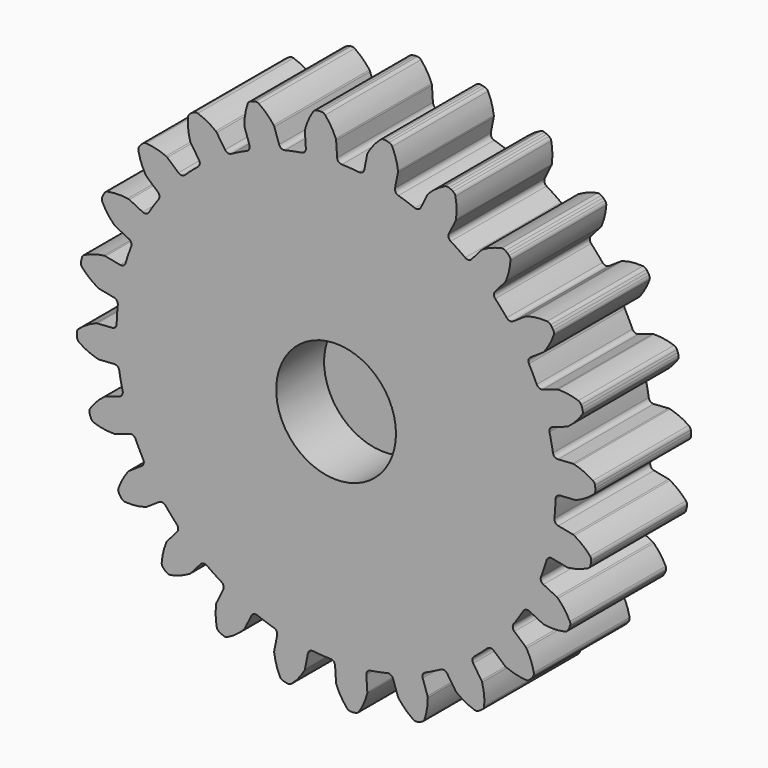
from build123d import *

# Parameters (mm, degrees)
F1_DEPTH = 12.7
F2_R     = 6.35
F3_DEPTH = 6.35


with BuildPart() as f1:
    # F0 (on Front) → F1 (new body)
    with BuildSketch(Plane.XZ):
        with BuildLine():
            ThreePointArc((-3.206501, 23.528829), (-3.316538, 23.178349), (-3.6341, 22.993691))
            ThreePointArc((-3.6341, 22.993691), (-4.541527, 22.831799), (-5.441834, 22.63411))
            ThreePointArc((-5.441834, 22.63411), (-5.805889, 22.683186), (-6.041672, 22.964878))
            Line((-6.041672, 22.964878), (-6.54865, 24.459758))
            ThreePointArc((-6.54865, 24.459758), (-6.580189, 24.533183), (-6.622851, 24.600753))
            ThreePointArc((-6.622851, 24.600753), (-7.343619, 25.410432), (-8.1916, 26.085719))
            ThreePointArc((-8.1916, 26.085719), (-8.390735, 26.164067), (-8.604465, 26.15346))
            Line((-8.604465, 26.15346), (-8.855106, 26.086301))
            Line((-8.855106, 26.086301), (-9.094836, 25.987001))
            ThreePointArc((-9.094836, 25.987001), (-9.270857, 25.865306), (-9.381146, 25.681923))
            ThreePointArc((-9.381146, 25.681923), (-9.642807, 24.629963), (-9.721729, 23.548826))
            ThreePointArc((-9.721729, 23.548826), (-9.714441, 23.469247), (-9.694764, 23.391796))
            Line((-9.694764, 23.391796), (-9.186951, 21.8972))
            ThreePointArc((-9.186951, 21.8972), (-9.202527, 21.530183), (-9.461476, 21.269625))
            ThreePointArc((-9.461476, 21.269625), (-10.296083, 20.87839), (-11.114547, 20.454421))
            ThreePointArc((-11.114547, 20.454421), (-11.478898, 20.407601), (-11.779555, 20.618669))
            Line((-11.779555, 20.618669), (-12.656161, 21.931396))
            ThreePointArc((-12.656161, 21.931396), (-12.705629, 21.994157), (-12.764327, 22.048383))
            ThreePointArc((-12.764327, 22.048383), (-13.670095, 22.643924), (-14.663959, 23.076728))
            ThreePointArc((-14.663959, 23.076728), (-14.876587, 23.100866), (-15.080289, 23.035303))
            Line((-15.080289, 23.035303), (-15.305007, 22.905562))
            Line((-15.305007, 22.905562), (-15.510868, 22.747599))
            ThreePointArc((-15.510868, 22.747599), (-15.649394, 22.584493), (-15.708462, 22.378813))
            ThreePointArc((-15.708462, 22.378813), (-15.688939, 21.294976), (-15.485353, 20.230251))
            ThreePointArc((-15.485353, 20.230251), (-15.457717, 20.15527), (-15.418665, 20.08555))
            Line((-15.418665, 20.08555), (-14.541326, 18.773313))
            ThreePointArc((-14.541326, 18.773313), (-14.46138, 18.41477), (-14.644068, 18.09607))
            ThreePointArc((-14.644068, 18.09607), (-15.348977, 17.502154), (-16.029821, 16.880797))
            ThreePointArc((-16.029821, 16.880797), (-16.36964, 16.741271), (-16.714681, 16.867332))
            Line((-16.714681, 16.867332), (-17.901176, 17.908447))
            ThreePointArc((-17.901176, 17.908447), (-17.965202, 17.956265), (-18.035934, 17.993452))
            ThreePointArc((-18.035934, 17.993452), (-19.064977, 18.33427), (-20.136994, 18.495096))
            ThreePointArc((-20.136994, 18.495096), (-20.348623, 18.463379), (-20.528415, 18.347328))
            Line((-20.528415, 18.347328), (-20.711897, 18.163846))
            Line((-20.711897, 18.163846), (-20.86986, 17.957985))
            ThreePointArc((-20.86986, 17.957985), (-20.96145, 17.764583), (-20.965273, 17.550625))
            ThreePointArc((-20.965273, 17.550625), (-20.665897, 16.508771), (-20.193677, 15.533018))
            ThreePointArc((-20.193677, 15.533018), (-20.147576, 15.467744), (-20.09181, 15.410508))
            Line((-20.09181, 15.410508), (-18.904733, 14.370056))
            ThreePointArc((-18.904733, 14.370056), (-18.734714, 14.044421), (-18.828691, 13.689298))
            ThreePointArc((-18.828691, 13.689298), (-19.355864, 12.933175), (-19.85269, 12.156775))
            ThreePointArc((-19.85269, 12.156775), (-20.144818, 11.934051), (-20.510729, 11.966514))
            Line((-20.510729, 11.966514), (-21.926255, 12.665066))
            ThreePointArc((-21.926255, 12.665066), (-22.000476, 12.694684), (-22.078423, 12.712296))
            ThreePointArc((-22.078423, 12.712296), (-23.160612, 12.775166), (-24.237725, 12.653053))
            ThreePointArc((-24.237725, 12.653053), (-24.433935, 12.567643), (-24.577565, 12.409013))
            Line((-24.577565, 12.409013), (-24.707306, 12.184295))
            Line((-24.707306, 12.184295), (-24.806605, 11.944564))
            ThreePointArc((-24.806605, 11.944564), (-24.845019, 11.734047), (-24.793334, 11.52639))
            ThreePointArc((-24.793334, 11.52639), (-24.234508, 10.59752), (-23.525835, 9.777235))
            ThreePointArc((-23.525835, 9.777235), (-23.464411, 9.726117), (-23.395731, 9.685264))
            Line((-23.395731, 9.685264), (-21.979814, 8.987503))
            ThreePointArc((-21.979814, 8.987503), (-21.731308, 8.716969), (-21.73017, 8.349622))
            ThreePointArc((-21.73017, 8.349622), (-22.043681, 7.482821), (-22.322631, 6.604289))
            ThreePointArc((-22.322631, 6.604289), (-22.54716, 6.313546), (-22.909004, 6.250197))
            Line((-22.909004, 6.250197), (-24.457097, 6.558582))
            ThreePointArc((-24.457097, 6.558582), (-24.536454, 6.567981), (-24.616303, 6.564819))
            ThreePointArc((-24.616303, 6.564819), (-25.677889, 6.345456), (-26.686696, 5.948726))
            ThreePointArc((-26.686696, 5.948726), (-26.854114, 5.815444), (-26.951793, 5.625044))
            Line((-26.951793, 5.625044), (-27.018952, 5.374404))
            Line((-27.018952, 5.374404), (-27.052822, 5.117141))
            ThreePointArc((-27.052822, 5.117141), (-27.03544, 4.903855), (-26.931771, 4.71665))
            ThreePointArc((-26.931771, 4.71665), (-26.151577, 3.964066), (-25.254746, 3.355149))
            ThreePointArc((-25.254746, 3.355149), (-25.182185, 3.321671), (-25.105271, 3.299986))
            Line((-25.105271, 3.299986), (-23.557007, 2.992467))
            ThreePointArc((-23.557007, 2.992467), (-23.246949, 2.795469), (-23.150774, 2.440934))
            ThreePointArc((-23.150774, 2.440934), (-23.229258, 1.522526), (-23.271322, 0.601731))
            ThreePointArc((-23.271322, 0.601731), (-23.41295, 0.262783), (-23.746069, 0.10794))
            Line((-23.746069, 0.10794), (-25.321227, 0.005141))
            ThreePointArc((-25.321227, 0.005141), (-25.400313, -0.006319), (-25.476623, -0.03004))
            ThreePointArc((-25.476623, -0.03004), (-26.445261, -0.516687), (-27.317012, -1.160997))
            ThreePointArc((-27.317012, -1.160997), (-27.44423, -1.333069), (-27.489302, -1.542262))
            Line((-27.489302, -1.542262), (-27.489302, -1.801744))
            Line((-27.489302, -1.801744), (-27.455433, -2.059006))
            ThreePointArc((-27.455433, -2.059006), (-27.383441, -2.260526), (-27.234852, -2.414521))
            ThreePointArc((-27.234852, -2.414521), (-26.28646, -2.939532), (-25.262588, -3.295584))
            ThreePointArc((-25.262588, -3.295584), (-25.183835, -3.309141), (-25.103929, -3.31018))
            Line((-25.103929, -3.31018), (-23.528829, -3.206501))
            ThreePointArc((-23.528829, -3.206501), (-23.178349, -3.316538), (-22.993691, -3.6341))
            ThreePointArc((-22.993691, -3.6341), (-22.831799, -4.541527), (-22.63411, -5.441834))
            ThreePointArc((-22.63411, -5.441834), (-22.683186, -5.805889), (-22.964878, -6.041672))
            Line((-22.964878, -6.041672), (-24.459758, -6.54865))
            ThreePointArc((-24.459758, -6.54865), (-24.533183, -6.580189), (-24.600753, -6.622851))
            ThreePointArc((-24.600753, -6.622851), (-25.410432, -7.343619), (-26.085719, -8.1916))
            ThreePointArc((-26.085719, -8.1916), (-26.164067, -8.390735), (-26.15346, -8.604465))
            Line((-26.15346, -8.604465), (-26.086301, -8.855106))
            Line((-26.086301, -8.855106), (-25.987001, -9.094836))
            ThreePointArc((-25.987001, -9.094836), (-25.865306, -9.270857), (-25.681923, -9.381146))
            ThreePointArc((-25.681923, -9.381146), (-24.629963, -9.642807), (-23.548826, -9.721729))
            ThreePointArc((-23.548826, -9.721729), (-23.469247, -9.714441), (-23.391796, -9.694764))
            Line((-23.391796, -9.694764), (-21.8972, -9.186951))
            ThreePointArc((-21.8972, -9.186951), (-21.530183, -9.202527), (-21.269625, -9.461476))
            ThreePointArc((-21.269625, -9.461476), (-20.87839, -10.296083), (-20.454421, -11.114547))
            ThreePointArc((-20.454421, -11.114547), (-20.407601, -11.478898), (-20.618669, -11.779555))
            Line((-20.618669, -11.779555), (-21.931396, -12.656161))
            ThreePointArc((-21.931396, -12.656161), (-21.994157, -12.705629), (-22.048383, -12.764327))
            ThreePointArc((-22.048383, -12.764327), (-22.643924, -13.670095), (-23.076728, -14.663959))
            ThreePointArc((-23.076728, -14.663959), (-23.100866, -14.876587), (-23.035303, -15.080289))
            Line((-23.035303, -15.080289), (-22.905562, -15.305007))
            Line((-22.905562, -15.305007), (-22.747599, -15.510868))
            ThreePointArc((-22.747599, -15.510868), (-22.584493, -15.649394), (-22.378813, -15.708462))
            ThreePointArc((-22.378813, -15.708462), (-21.294976, -15.688939), (-20.230251, -15.485353))
            ThreePointArc((-20.230251, -15.485353), (-20.15527, -15.457717), (-20.08555, -15.418665))
            Line((-20.08555, -15.418665), (-18.773313, -14.541326))
            ThreePointArc((-18.773313, -14.541326), (-18.41477, -14.46138), (-18.09607, -14.644068))
            ThreePointArc((-18.09607, -14.644068), (-17.502154, -15.348977), (-16.880797, -16.029821))
            ThreePointArc((-16.880797, -16.029821), (-16.741271, -16.36964), (-16.867332, -16.714681))
            Line((-16.867332, -16.714681), (-17.908447, -17.901176))
            ThreePointArc((-17.908447, -17.901176), (-17.956265, -17.965202), (-17.993452, -18.035934))
            ThreePointArc((-17.993452, -18.035934), (-18.33427, -19.064977), (-18.495096, -20.136994))
            ThreePointArc((-18.495096, -20.136994), (-18.463379, -20.348623), (-18.347328, -20.528415))
            Line((-18.347328, -20.528415), (-18.163846, -20.711897))
            Line((-18.163846, -20.711897), (-17.957985, -20.86986))
            ThreePointArc((-17.957985, -20.86986), (-17.764583, -20.96145), (-17.550625, -20.965273))
            ThreePointArc((-17.550625, -20.965273), (-16.508771, -20.665897), (-15.533018, -20.193677))
            ThreePointArc((-15.533018, -20.193677), (-15.467744, -20.147576), (-15.410508, -20.09181))
            Line((-15.410508, -20.09181), (-14.370056, -18.904733))
            ThreePointArc((-14.370056, -18.904733), (-14.044421, -18.734714), (-13.689298, -18.828691))
            ThreePointArc((-13.689298, -18.828691), (-12.933175, -19.355864), (-12.156775, -19.85269))
            ThreePointArc((-12.156775, -19.85269), (-11.934051, -20.144818), (-11.966514, -20.510729))
            Line((-11.966514, -20.510729), (-12.665066, -21.926255))
            ThreePointArc((-12.665066, -21.926255), (-12.694684, -22.000476), (-12.712296, -22.078423))
            ThreePointArc((-12.712296, -22.078423), (-12.775166, -23.160612), (-12.653053, -24.237725))
            ThreePointArc((-12.653053, -24.237725), (-12.567643, -24.433935), (-12.409013, -24.577565))
            Line((-12.409013, -24.577565), (-12.184295, -24.707306))
            Line((-12.184295, -24.707306), (-11.944564, -24.806605))
            ThreePointArc((-11.944564, -24.806605), (-11.734047, -24.845019), (-11.52639, -24.793334))
            ThreePointArc((-11.52639, -24.793334), (-10.59752, -24.234508), (-9.777235, -23.525835))
            ThreePointArc((-9.777235, -23.525835), (-9.726117, -23.464411), (-9.685264, -23.395731))
            Line((-9.685264, -23.395731), (-8.987503, -21.979814))
            ThreePointArc((-8.987503, -21.979814), (-8.716969, -21.731308), (-8.349622, -21.73017))
            ThreePointArc((-8.349622, -21.73017), (-7.482821, -22.043681), (-6.604289, -22.322631))
            ThreePointArc((-6.604289, -22.322631), (-6.313546, -22.54716), (-6.250197, -22.909004))
            Line((-6.250197, -22.909004), (-6.558582, -24.457097))
            ThreePointArc((-6.558582, -24.457097), (-6.567981, -24.536454), (-6.564819, -24.616303))
            ThreePointArc((-6.564819, -24.616303), (-6.345456, -25.677889), (-5.948726, -26.686696))
            ThreePointArc((-5.948726, -26.686696), (-5.815444, -26.854114), (-5.625044, -26.951793))
            Line((-5.625044, -26.951793), (-5.374404, -27.018952))
            Line((-5.374404, -27.018952), (-5.117141, -27.052822))
            ThreePointArc((-5.117141, -27.052822), (-4.903855, -27.03544), (-4.71665, -26.931771))
            ThreePointArc((-4.71665, -26.931771), (-3.964066, -26.151577), (-3.355149, -25.254746))
            ThreePointArc((-3.355149, -25.254746), (-3.321671, -25.182185), (-3.299986, -25.105271))
            Line((-3.299986, -25.105271), (-2.992467, -23.557007))
            ThreePointArc((-2.992467, -23.557007), (-2.795469, -23.246949), (-2.440934, -23.150774))
            ThreePointArc((-2.440934, -23.150774), (-1.522526, -23.229258), (-0.601731, -23.271322))
            ThreePointArc((-0.601731, -23.271322), (-0.262783, -23.41295), (-0.10794, -23.746069))
            Line((-0.10794, -23.746069), (-0.005141, -25.321227))
            ThreePointArc((-0.005141, -25.321227), (0.006319, -25.400313), (0.03004, -25.476623))
            ThreePointArc((0.03004, -25.476623), (0.516687, -26.445261), (1.160997, -27.317012))
            ThreePointArc((1.160997, -27.317012), (1.333069, -27.44423), (1.542262, -27.489302))
            Line((1.542262, -27.489302), (1.801744, -27.489302))
            Line((1.801744, -27.489302), (2.059006, -27.455433))
            ThreePointArc((2.059006, -27.455433), (2.260526, -27.383441), (2.414521, -27.234852))
            ThreePointArc((2.414521, -27.234852), (2.939532, -26.28646), (3.295584, -25.262588))
            ThreePointArc((3.295584, -25.262588), (3.309141, -25.183835), (3.31018, -25.103929))
            Line((3.31018, -25.103929), (3.206501, -23.528829))
            ThreePointArc((3.206501, -23.528829), (3.316538, -23.178349), (3.6341, -22.993691))
            ThreePointArc((3.6341, -22.993691), (4.541527, -22.831799), (5.441834, -22.63411))
            ThreePointArc((5.441834, -22.63411), (5.805889, -22.683186), (6.041672, -22.964878))
            Line((6.041672, -22.964878), (6.54865, -24.459758))
            ThreePointArc((6.54865, -24.459758), (6.580189, -24.533183), (6.622851, -24.600753))
            ThreePointArc((6.622851, -24.600753), (7.343619, -25.410432), (8.1916, -26.085719))
            ThreePointArc((8.1916, -26.085719), (8.390735, -26.164067), (8.604465, -26.15346))
            Line((8.604465, -26.15346), (8.855106, -26.086301))
            Line((8.855106, -26.086301), (9.094836, -25.987001))
            ThreePointArc((9.094836, -25.987001), (9.270857, -25.865306), (9.381146, -25.681923))
            ThreePointArc((9.381146, -25.681923), (9.642807, -24.629963), (9.721729, -23.548826))
            ThreePointArc((9.721729, -23.548826), (9.714441, -23.469247), (9.694764, -23.391796))
            Line((9.694764, -23.391796), (9.186951, -21.8972))
            ThreePointArc((9.186951, -21.8972), (9.202527, -21.530183), (9.461476, -21.269625))
            ThreePointArc((9.461476, -21.269625), (10.296083, -20.87839), (11.114547, -20.454421))
            ThreePointArc((11.114547, -20.454421), (11.478898, -20.407601), (11.779555, -20.618669))
            Line((11.779555, -20.618669), (12.656161, -21.931396))
            ThreePointArc((12.656161, -21.931396), (12.705629, -21.994157), (12.764327, -22.048383))
            ThreePointArc((12.764327, -22.048383), (13.670095, -22.643924), (14.663959, -23.076728))
            ThreePointArc((14.663959, -23.076728), (14.876587, -23.100866), (15.080289, -23.035303))
            Line((15.080289, -23.035303), (15.305007, -22.905562))
            Line((15.305007, -22.905562), (15.510868, -22.747599))
            ThreePointArc((15.510868, -22.747599), (15.649394, -22.584493), (15.708462, -22.378813))
            ThreePointArc((15.708462, -22.378813), (15.688939, -21.294976), (15.485353, -20.230251))
            ThreePointArc((15.485353, -20.230251), (15.457717, -20.15527), (15.418665, -20.08555))
            Line((15.418665, -20.08555), (14.541326, -18.773313))
            ThreePointArc((14.541326, -18.773313), (14.46138, -18.41477), (14.644068, -18.09607))
            ThreePointArc((14.644068, -18.09607), (15.348977, -17.502154), (16.029821, -16.880797))
            ThreePointArc((16.029821, -16.880797), (16.36964, -16.741271), (16.714681, -16.867332))
            Line((16.714681, -16.867332), (17.901176, -17.908447))
            ThreePointArc((17.901176, -17.908447), (17.965202, -17.956265), (18.035934, -17.993452))
            ThreePointArc((18.035934, -17.993452), (19.064977, -18.33427), (20.136994, -18.495096))
            ThreePointArc((20.136994, -18.495096), (20.348623, -18.463379), (20.528415, -18.347328))
            Line((20.528415, -18.347328), (20.711897, -18.163846))
            Line((20.711897, -18.163846), (20.86986, -17.957985))
            ThreePointArc((20.86986, -17.957985), (20.96145, -17.764583), (20.965273, -17.550625))
            ThreePointArc((20.965273, -17.550625), (20.665897, -16.508771), (20.193677, -15.533018))
            ThreePointArc((20.193677, -15.533018), (20.147576, -15.467744), (20.09181, -15.410508))
            Line((20.09181, -15.410508), (18.904733, -14.370056))
            ThreePointArc((18.904733, -14.370056), (18.734714, -14.044421), (18.828691, -13.689298))
            ThreePointArc((18.828691, -13.689298), (19.355864, -12.933175), (19.85269, -12.156775))
            ThreePointArc((19.85269, -12.156775), (20.144818, -11.934051), (20.510729, -11.966514))
            Line((20.510729, -11.966514), (21.926255, -12.665066))
            ThreePointArc((21.926255, -12.665066), (22.000476, -12.694684), (22.078423, -12.712296))
            ThreePointArc((22.078423, -12.712296), (23.160612, -12.775166), (24.237725, -12.653053))
            ThreePointArc((24.237725, -12.653053), (24.433935, -12.567643), (24.577565, -12.409013))
            Line((24.577565, -12.409013), (24.707306, -12.184295))
            Line((24.707306, -12.184295), (24.806605, -11.944564))
            ThreePointArc((24.806605, -11.944564), (24.845019, -11.734047), (24.793334, -11.52639))
            ThreePointArc((24.793334, -11.52639), (24.234508, -10.59752), (23.525835, -9.777235))
            ThreePointArc((23.525835, -9.777235), (23.464411, -9.726117), (23.395731, -9.685264))
            Line((23.395731, -9.685264), (21.979814, -8.987503))
            ThreePointArc((21.979814, -8.987503), (21.731308, -8.716969), (21.73017, -8.349622))
            ThreePointArc((21.73017, -8.349622), (22.043681, -7.482821), (22.322631, -6.604289))
            ThreePointArc((22.322631, -6.604289), (22.54716, -6.313546), (22.909004, -6.250197))
            Line((22.909004, -6.250197), (24.457097, -6.558582))
            ThreePointArc((24.457097, -6.558582), (24.536454, -6.567981), (24.616303, -6.564819))
            ThreePointArc((24.616303, -6.564819), (25.677889, -6.345456), (26.686696, -5.948726))
            ThreePointArc((26.686696, -5.948726), (26.854114, -5.815444), (26.951793, -5.625044))
            Line((26.951793, -5.625044), (27.018952, -5.374404))
            Line((27.018952, -5.374404), (27.052822, -5.117141))
            ThreePointArc((27.052822, -5.117141), (27.03544, -4.903855), (26.931771, -4.71665))
            ThreePointArc((26.931771, -4.71665), (26.151577, -3.964066), (25.254746, -3.355149))
            ThreePointArc((25.254746, -3.355149), (25.182185, -3.321671), (25.105271, -3.299986))
            Line((25.105271, -3.299986), (23.557007, -2.992467))
            ThreePointArc((23.557007, -2.992467), (23.246949, -2.795469), (23.150774, -2.440934))
            ThreePointArc((23.150774, -2.440934), (23.229258, -1.522526), (23.271322, -0.601731))
            ThreePointArc((23.271322, -0.601731), (23.41295, -0.262783), (23.746069, -0.10794))
            Line((23.746069, -0.10794), (25.321227, -0.005141))
            ThreePointArc((25.321227, -0.005141), (25.400313, 0.006319), (25.476623, 0.03004))
            ThreePointArc((25.476623, 0.03004), (26.445261, 0.516687), (27.317012, 1.160997))
            ThreePointArc((27.317012, 1.160997), (27.44423, 1.333069), (27.489302, 1.542262))
            Line((27.489302, 1.542262), (27.489302, 1.801744))
            Line((27.489302, 1.801744), (27.455433, 2.059006))
            ThreePointArc((27.455433, 2.059006), (27.383441, 2.260526), (27.234852, 2.414521))
            ThreePointArc((27.234852, 2.414521), (26.28646, 2.939532), (25.262588, 3.295584))
            ThreePointArc((25.262588, 3.295584), (25.183835, 3.309141), (25.103929, 3.31018))
            Line((25.103929, 3.31018), (23.528829, 3.206501))
            ThreePointArc((23.528829, 3.206501), (23.178349, 3.316538), (22.993691, 3.6341))
            ThreePointArc((22.993691, 3.6341), (22.831799, 4.541527), (22.63411, 5.441834))
            ThreePointArc((22.63411, 5.441834), (22.683186, 5.805889), (22.964878, 6.041672))
            Line((22.964878, 6.041672), (24.459758, 6.54865))
            ThreePointArc((24.459758, 6.54865), (24.533183, 6.580189), (24.600753, 6.622851))
            ThreePointArc((24.600753, 6.622851), (25.410432, 7.343619), (26.085719, 8.1916))
            ThreePointArc((26.085719, 8.1916), (26.164067, 8.390735), (26.15346, 8.604465))
            Line((26.15346, 8.604465), (26.086301, 8.855106))
            Line((26.086301, 8.855106), (25.987001, 9.094836))
            ThreePointArc((25.987001, 9.094836), (25.865306, 9.270857), (25.681923, 9.381146))
            ThreePointArc((25.681923, 9.381146), (24.629963, 9.642807), (23.548826, 9.721729))
            ThreePointArc((23.548826, 9.721729), (23.469247, 9.714441), (23.391796, 9.694764))
            Line((23.391796, 9.694764), (21.8972, 9.186951))
            ThreePointArc((21.8972, 9.186951), (21.530183, 9.202527), (21.269625, 9.461476))
            ThreePointArc((21.269625, 9.461476), (20.87839, 10.296083), (20.454421, 11.114547))
            ThreePointArc((20.454421, 11.114547), (20.407601, 11.478898), (20.618669, 11.779555))
            Line((20.618669, 11.779555), (21.931396, 12.656161))
            ThreePointArc((21.931396, 12.656161), (21.994157, 12.705629), (22.048383, 12.764327))
            ThreePointArc((22.048383, 12.764327), (22.643924, 13.670095), (23.076728, 14.663959))
            ThreePointArc((23.076728, 14.663959), (23.100866, 14.876587), (23.035303, 15.080289))
            Line((23.035303, 15.080289), (22.905562, 15.305007))
            Line((22.905562, 15.305007), (22.747599, 15.510868))
            ThreePointArc((22.747599, 15.510868), (22.584493, 15.649394), (22.378813, 15.708462))
            ThreePointArc((22.378813, 15.708462), (21.294976, 15.688939), (20.230251, 15.485353))
            ThreePointArc((20.230251, 15.485353), (20.15527, 15.457717), (20.08555, 15.418665))
            Line((20.08555, 15.418665), (18.773313, 14.541326))
            ThreePointArc((18.773313, 14.541326), (18.41477, 14.46138), (18.09607, 14.644068))
            ThreePointArc((18.09607, 14.644068), (17.502154, 15.348977), (16.880797, 16.029821))
            ThreePointArc((16.880797, 16.029821), (16.741271, 16.36964), (16.867332, 16.714681))
            Line((16.867332, 16.714681), (17.908447, 17.901176))
            ThreePointArc((17.908447, 17.901176), (17.956265, 17.965202), (17.993452, 18.035934))
            ThreePointArc((17.993452, 18.035934), (18.33427, 19.064977), (18.495096, 20.136994))
            ThreePointArc((18.495096, 20.136994), (18.463379, 20.348623), (18.347328, 20.528415))
            Line((18.347328, 20.528415), (18.163846, 20.711897))
            Line((18.163846, 20.711897), (17.957985, 20.86986))
            ThreePointArc((17.957985, 20.86986), (17.764583, 20.96145), (17.550625, 20.965273))
            ThreePointArc((17.550625, 20.965273), (16.508771, 20.665897), (15.533018, 20.193677))
            ThreePointArc((15.533018, 20.193677), (15.467744, 20.147576), (15.410508, 20.09181))
            Line((15.410508, 20.09181), (14.370056, 18.904733))
            ThreePointArc((14.370056, 18.904733), (14.044421, 18.734714), (13.689298, 18.828691))
            ThreePointArc((13.689298, 18.828691), (12.933175, 19.355864), (12.156775, 19.85269))
            ThreePointArc((12.156775, 19.85269), (11.934051, 20.144818), (11.966514, 20.510729))
            Line((11.966514, 20.510729), (12.665066, 21.926255))
            ThreePointArc((12.665066, 21.926255), (12.694684, 22.000476), (12.712296, 22.078423))
            ThreePointArc((12.712296, 22.078423), (12.775166, 23.160612), (12.653053, 24.237725))
            ThreePointArc((12.653053, 24.237725), (12.567643, 24.433935), (12.409013, 24.577565))
            Line((12.409013, 24.577565), (12.184295, 24.707306))
            Line((12.184295, 24.707306), (11.944564, 24.806605))
            ThreePointArc((11.944564, 24.806605), (11.734047, 24.845019), (11.52639, 24.793334))
            ThreePointArc((11.52639, 24.793334), (10.59752, 24.234508), (9.777235, 23.525835))
            ThreePointArc((9.777235, 23.525835), (9.726117, 23.464411), (9.685264, 23.395731))
            Line((9.685264, 23.395731), (8.987503, 21.979814))
            ThreePointArc((8.987503, 21.979814), (8.716969, 21.731308), (8.349622, 21.73017))
            ThreePointArc((8.349622, 21.73017), (7.482821, 22.043681), (6.604289, 22.322631))
            ThreePointArc((6.604289, 22.322631), (6.313546, 22.54716), (6.250197, 22.909004))
            Line((6.250197, 22.909004), (6.558582, 24.457097))
            ThreePointArc((6.558582, 24.457097), (6.567981, 24.536454), (6.564819, 24.616303))
            ThreePointArc((6.564819, 24.616303), (6.345456, 25.677889), (5.948726, 26.686696))
            ThreePointArc((5.948726, 26.686696), (5.815444, 26.854114), (5.625044, 26.951793))
            Line((5.625044, 26.951793), (5.374404, 27.018952))
            Line((5.374404, 27.018952), (5.117141, 27.052822))
            ThreePointArc((5.117141, 27.052822), (4.903855, 27.03544), (4.71665, 26.931771))
            ThreePointArc((4.71665, 26.931771), (3.964066, 26.151577), (3.355149, 25.254746))
            ThreePointArc((3.355149, 25.254746), (3.321671, 25.182185), (3.299986, 25.105271))
            Line((3.299986, 25.105271), (2.992467, 23.557007))
            ThreePointArc((2.992467, 23.557007), (2.795469, 23.246949), (2.440934, 23.150774))
            ThreePointArc((2.440934, 23.150774), (1.522526, 23.229258), (0.601731, 23.271322))
            ThreePointArc((0.601731, 23.271322), (0.262783, 23.41295), (0.10794, 23.746069))
            Line((0.10794, 23.746069), (0.005141, 25.321227))
            ThreePointArc((0.005141, 25.321227), (-0.006319, 25.400313), (-0.03004, 25.476623))
            ThreePointArc((-0.03004, 25.476623), (-0.516687, 26.445261), (-1.160997, 27.317012))
            ThreePointArc((-1.160997, 27.317012), (-1.333069, 27.44423), (-1.542262, 27.489302))
            Line((-1.542262, 27.489302), (-1.801744, 27.489302))
            Line((-1.801744, 27.489302), (-2.059006, 27.455433))
            ThreePointArc((-2.059006, 27.455433), (-2.260526, 27.383441), (-2.414521, 27.234852))
            ThreePointArc((-2.414521, 27.234852), (-2.939532, 26.28646), (-3.295584, 25.262588))
            ThreePointArc((-3.295584, 25.262588), (-3.309141, 25.183835), (-3.31018, 25.103929))
            Line((-3.31018, 25.103929), (-3.206501, 23.528829))
        make_face()
        with BuildLine():
            ThreePointArc((-3.206501, 23.528829), (-3.316538, 23.178349), (-3.6341, 22.993691))
            ThreePointArc((-3.6341, 22.993691), (-4.541527, 22.831799), (-5.441834, 22.63411))
            ThreePointArc((-5.441834, 22.63411), (-5.805889, 22.683186), (-6.041672, 22.964878))
            Line((-6.041672, 22.964878), (-6.54865, 24.459758))
            ThreePointArc((-6.54865, 24.459758), (-6.580189, 24.533183), (-6.622851, 24.600753))
            ThreePointArc((-6.622851, 24.600753), (-7.343619, 25.410432), (-8.1916, 26.085719))
            ThreePointArc((-8.1916, 26.085719), (-8.390735, 26.164067), (-8.604465, 26.15346))
            Line((-8.604465, 26.15346), (-8.855106, 26.086301))
            Line((-8.855106, 26.086301), (-9.094836, 25.987001))
            ThreePointArc((-9.094836, 25.987001), (-9.270857, 25.865306), (-9.381146, 25.681923))
            ThreePointArc((-9.381146, 25.681923), (-9.642807, 24.629963), (-9.721729, 23.548826))
            ThreePointArc((-9.721729, 23.548826), (-9.714441, 23.469247), (-9.694764, 23.391796))
            Line((-9.694764, 23.391796), (-9.186951, 21.8972))
            ThreePointArc((-9.186951, 21.8972), (-9.202527, 21.530183), (-9.461476, 21.269625))
            ThreePointArc((-9.461476, 21.269625), (-10.296083, 20.87839), (-11.114547, 20.454421))
            ThreePointArc((-11.114547, 20.454421), (-11.478898, 20.407601), (-11.779555, 20.618669))
            Line((-11.779555, 20.618669), (-12.656161, 21.931396))
            ThreePointArc((-12.656161, 21.931396), (-12.705629, 21.994157), (-12.764327, 22.048383))
            ThreePointArc((-12.764327, 22.048383), (-13.670095, 22.643924), (-14.663959, 23.076728))
            ThreePointArc((-14.663959, 23.076728), (-14.876587, 23.100866), (-15.080289, 23.035303))
            Line((-15.080289, 23.035303), (-15.305007, 22.905562))
            Line((-15.305007, 22.905562), (-15.510868, 22.747599))
            ThreePointArc((-15.510868, 22.747599), (-15.649394, 22.584493), (-15.708462, 22.378813))
            ThreePointArc((-15.708462, 22.378813), (-15.688939, 21.294976), (-15.485353, 20.230251))
            ThreePointArc((-15.485353, 20.230251), (-15.457717, 20.15527), (-15.418665, 20.08555))
            Line((-15.418665, 20.08555), (-14.541326, 18.773313))
            ThreePointArc((-14.541326, 18.773313), (-14.46138, 18.41477), (-14.644068, 18.09607))
            ThreePointArc((-14.644068, 18.09607), (-15.348977, 17.502154), (-16.029821, 16.880797))
            ThreePointArc((-16.029821, 16.880797), (-16.36964, 16.741271), (-16.714681, 16.867332))
            Line((-16.714681, 16.867332), (-17.901176, 17.908447))
            ThreePointArc((-17.901176, 17.908447), (-17.965202, 17.956265), (-18.035934, 17.993452))
            ThreePointArc((-18.035934, 17.993452), (-19.064977, 18.33427), (-20.136994, 18.495096))
            ThreePointArc((-20.136994, 18.495096), (-20.348623, 18.463379), (-20.528415, 18.347328))
            Line((-20.528415, 18.347328), (-20.711897, 18.163846))
            Line((-20.711897, 18.163846), (-20.86986, 17.957985))
            ThreePointArc((-20.86986, 17.957985), (-20.96145, 17.764583), (-20.965273, 17.550625))
            ThreePointArc((-20.965273, 17.550625), (-20.665897, 16.508771), (-20.193677, 15.533018))
            ThreePointArc((-20.193677, 15.533018), (-20.147576, 15.467744), (-20.09181, 15.410508))
            Line((-20.09181, 15.410508), (-18.904733, 14.370056))
            ThreePointArc((-18.904733, 14.370056), (-18.734714, 14.044421), (-18.828691, 13.689298))
            ThreePointArc((-18.828691, 13.689298), (-19.355864, 12.933175), (-19.85269, 12.156775))
            ThreePointArc((-19.85269, 12.156775), (-20.144818, 11.934051), (-20.510729, 11.966514))
            Line((-20.510729, 11.966514), (-21.926255, 12.665066))
            ThreePointArc((-21.926255, 12.665066), (-22.000476, 12.694684), (-22.078423, 12.712296))
            ThreePointArc((-22.078423, 12.712296), (-23.160612, 12.775166), (-24.237725, 12.653053))
            ThreePointArc((-24.237725, 12.653053), (-24.433935, 12.567643), (-24.577565, 12.409013))
            Line((-24.577565, 12.409013), (-24.707306, 12.184295))
            Line((-24.707306, 12.184295), (-24.806605, 11.944564))
            ThreePointArc((-24.806605, 11.944564), (-24.845019, 11.734047), (-24.793334, 11.52639))
            ThreePointArc((-24.793334, 11.52639), (-24.234508, 10.59752), (-23.525835, 9.777235))
            ThreePointArc((-23.525835, 9.777235), (-23.464411, 9.726117), (-23.395731, 9.685264))
            Line((-23.395731, 9.685264), (-21.979814, 8.987503))
            ThreePointArc((-21.979814, 8.987503), (-21.731308, 8.716969), (-21.73017, 8.349622))
            ThreePointArc((-21.73017, 8.349622), (-22.043681, 7.482821), (-22.322631, 6.604289))
            ThreePointArc((-22.322631, 6.604289), (-22.54716, 6.313546), (-22.909004, 6.250197))
            Line((-22.909004, 6.250197), (-24.457097, 6.558582))
            ThreePointArc((-24.457097, 6.558582), (-24.536454, 6.567981), (-24.616303, 6.564819))
            ThreePointArc((-24.616303, 6.564819), (-25.677889, 6.345456), (-26.686696, 5.948726))
            ThreePointArc((-26.686696, 5.948726), (-26.854114, 5.815444), (-26.951793, 5.625044))
            Line((-26.951793, 5.625044), (-27.018952, 5.374404))
            Line((-27.018952, 5.374404), (-27.052822, 5.117141))
            ThreePointArc((-27.052822, 5.117141), (-27.03544, 4.903855), (-26.931771, 4.71665))
            ThreePointArc((-26.931771, 4.71665), (-26.151577, 3.964066), (-25.254746, 3.355149))
            ThreePointArc((-25.254746, 3.355149), (-25.182185, 3.321671), (-25.105271, 3.299986))
            Line((-25.105271, 3.299986), (-23.557007, 2.992467))
            ThreePointArc((-23.557007, 2.992467), (-23.246949, 2.795469), (-23.150774, 2.440934))
            ThreePointArc((-23.150774, 2.440934), (-23.229258, 1.522526), (-23.271322, 0.601731))
            ThreePointArc((-23.271322, 0.601731), (-23.41295, 0.262783), (-23.746069, 0.10794))
            Line((-23.746069, 0.10794), (-25.321227, 0.005141))
            ThreePointArc((-25.321227, 0.005141), (-25.400313, -0.006319), (-25.476623, -0.03004))
            ThreePointArc((-25.476623, -0.03004), (-26.445261, -0.516687), (-27.317012, -1.160997))
            ThreePointArc((-27.317012, -1.160997), (-27.44423, -1.333069), (-27.489302, -1.542262))
            Line((-27.489302, -1.542262), (-27.489302, -1.801744))
            Line((-27.489302, -1.801744), (-27.455433, -2.059006))
            ThreePointArc((-27.455433, -2.059006), (-27.383441, -2.260526), (-27.234852, -2.414521))
            ThreePointArc((-27.234852, -2.414521), (-26.28646, -2.939532), (-25.262588, -3.295584))
            ThreePointArc((-25.262588, -3.295584), (-25.183835, -3.309141), (-25.103929, -3.31018))
            Line((-25.103929, -3.31018), (-23.528829, -3.206501))
            ThreePointArc((-23.528829, -3.206501), (-23.178349, -3.316538), (-22.993691, -3.6341))
            ThreePointArc((-22.993691, -3.6341), (-22.831799, -4.541527), (-22.63411, -5.441834))
            ThreePointArc((-22.63411, -5.441834), (-22.683186, -5.805889), (-22.964878, -6.041672))
            Line((-22.964878, -6.041672), (-24.459758, -6.54865))
            ThreePointArc((-24.459758, -6.54865), (-24.533183, -6.580189), (-24.600753, -6.622851))
            ThreePointArc((-24.600753, -6.622851), (-25.410432, -7.343619), (-26.085719, -8.1916))
            ThreePointArc((-26.085719, -8.1916), (-26.164067, -8.390735), (-26.15346, -8.604465))
            Line((-26.15346, -8.604465), (-26.086301, -8.855106))
            Line((-26.086301, -8.855106), (-25.987001, -9.094836))
            ThreePointArc((-25.987001, -9.094836), (-25.865306, -9.270857), (-25.681923, -9.381146))
            ThreePointArc((-25.681923, -9.381146), (-24.629963, -9.642807), (-23.548826, -9.721729))
            ThreePointArc((-23.548826, -9.721729), (-23.469247, -9.714441), (-23.391796, -9.694764))
            Line((-23.391796, -9.694764), (-21.8972, -9.186951))
            ThreePointArc((-21.8972, -9.186951), (-21.530183, -9.202527), (-21.269625, -9.461476))
            ThreePointArc((-21.269625, -9.461476), (-20.87839, -10.296083), (-20.454421, -11.114547))
            ThreePointArc((-20.454421, -11.114547), (-20.407601, -11.478898), (-20.618669, -11.779555))
            Line((-20.618669, -11.779555), (-21.931396, -12.656161))
            ThreePointArc((-21.931396, -12.656161), (-21.994157, -12.705629), (-22.048383, -12.764327))
            ThreePointArc((-22.048383, -12.764327), (-22.643924, -13.670095), (-23.076728, -14.663959))
            ThreePointArc((-23.076728, -14.663959), (-23.100866, -14.876587), (-23.035303, -15.080289))
            Line((-23.035303, -15.080289), (-22.905562, -15.305007))
            Line((-22.905562, -15.305007), (-22.747599, -15.510868))
            ThreePointArc((-22.747599, -15.510868), (-22.584493, -15.649394), (-22.378813, -15.708462))
            ThreePointArc((-22.378813, -15.708462), (-21.294976, -15.688939), (-20.230251, -15.485353))
            ThreePointArc((-20.230251, -15.485353), (-20.15527, -15.457717), (-20.08555, -15.418665))
            Line((-20.08555, -15.418665), (-18.773313, -14.541326))
            ThreePointArc((-18.773313, -14.541326), (-18.41477, -14.46138), (-18.09607, -14.644068))
            ThreePointArc((-18.09607, -14.644068), (-17.502154, -15.348977), (-16.880797, -16.029821))
            ThreePointArc((-16.880797, -16.029821), (-16.741271, -16.36964), (-16.867332, -16.714681))
            Line((-16.867332, -16.714681), (-17.908447, -17.901176))
            ThreePointArc((-17.908447, -17.901176), (-17.956265, -17.965202), (-17.993452, -18.035934))
            ThreePointArc((-17.993452, -18.035934), (-18.33427, -19.064977), (-18.495096, -20.136994))
            ThreePointArc((-18.495096, -20.136994), (-18.463379, -20.348623), (-18.347328, -20.528415))
            Line((-18.347328, -20.528415), (-18.163846, -20.711897))
            Line((-18.163846, -20.711897), (-17.957985, -20.86986))
            ThreePointArc((-17.957985, -20.86986), (-17.764583, -20.96145), (-17.550625, -20.965273))
            ThreePointArc((-17.550625, -20.965273), (-16.508771, -20.665897), (-15.533018, -20.193677))
            ThreePointArc((-15.533018, -20.193677), (-15.467744, -20.147576), (-15.410508, -20.09181))
            Line((-15.410508, -20.09181), (-14.370056, -18.904733))
            ThreePointArc((-14.370056, -18.904733), (-14.044421, -18.734714), (-13.689298, -18.828691))
            ThreePointArc((-13.689298, -18.828691), (-12.933175, -19.355864), (-12.156775, -19.85269))
            ThreePointArc((-12.156775, -19.85269), (-11.934051, -20.144818), (-11.966514, -20.510729))
            Line((-11.966514, -20.510729), (-12.665066, -21.926255))
            ThreePointArc((-12.665066, -21.926255), (-12.694684, -22.000476), (-12.712296, -22.078423))
            ThreePointArc((-12.712296, -22.078423), (-12.775166, -23.160612), (-12.653053, -24.237725))
            ThreePointArc((-12.653053, -24.237725), (-12.567643, -24.433935), (-12.409013, -24.577565))
            Line((-12.409013, -24.577565), (-12.184295, -24.707306))
            Line((-12.184295, -24.707306), (-11.944564, -24.806605))
            ThreePointArc((-11.944564, -24.806605), (-11.734047, -24.845019), (-11.52639, -24.793334))
            ThreePointArc((-11.52639, -24.793334), (-10.59752, -24.234508), (-9.777235, -23.525835))
            ThreePointArc((-9.777235, -23.525835), (-9.726117, -23.464411), (-9.685264, -23.395731))
            Line((-9.685264, -23.395731), (-8.987503, -21.979814))
            ThreePointArc((-8.987503, -21.979814), (-8.716969, -21.731308), (-8.349622, -21.73017))
            ThreePointArc((-8.349622, -21.73017), (-7.482821, -22.043681), (-6.604289, -22.322631))
            ThreePointArc((-6.604289, -22.322631), (-6.313546, -22.54716), (-6.250197, -22.909004))
            Line((-6.250197, -22.909004), (-6.558582, -24.457097))
            ThreePointArc((-6.558582, -24.457097), (-6.567981, -24.536454), (-6.564819, -24.616303))
            ThreePointArc((-6.564819, -24.616303), (-6.345456, -25.677889), (-5.948726, -26.686696))
            ThreePointArc((-5.948726, -26.686696), (-5.815444, -26.854114), (-5.625044, -26.951793))
            Line((-5.625044, -26.951793), (-5.374404, -27.018952))
            Line((-5.374404, -27.018952), (-5.117141, -27.052822))
            ThreePointArc((-5.117141, -27.052822), (-4.903855, -27.03544), (-4.71665, -26.931771))
            ThreePointArc((-4.71665, -26.931771), (-3.964066, -26.151577), (-3.355149, -25.254746))
            ThreePointArc((-3.355149, -25.254746), (-3.321671, -25.182185), (-3.299986, -25.105271))
            Line((-3.299986, -25.105271), (-2.992467, -23.557007))
            ThreePointArc((-2.992467, -23.557007), (-2.795469, -23.246949), (-2.440934, -23.150774))
            ThreePointArc((-2.440934, -23.150774), (-1.522526, -23.229258), (-0.601731, -23.271322))
            ThreePointArc((-0.601731, -23.271322), (-0.262783, -23.41295), (-0.10794, -23.746069))
            Line((-0.10794, -23.746069), (-0.005141, -25.321227))
            ThreePointArc((-0.005141, -25.321227), (0.006319, -25.400313), (0.03004, -25.476623))
            ThreePointArc((0.03004, -25.476623), (0.516687, -26.445261), (1.160997, -27.317012))
            ThreePointArc((1.160997, -27.317012), (1.333069, -27.44423), (1.542262, -27.489302))
            Line((1.542262, -27.489302), (1.801744, -27.489302))
            Line((1.801744, -27.489302), (2.059006, -27.455433))
            ThreePointArc((2.059006, -27.455433), (2.260526, -27.383441), (2.414521, -27.234852))
            ThreePointArc((2.414521, -27.234852), (2.939532, -26.28646), (3.295584, -25.262588))
            ThreePointArc((3.295584, -25.262588), (3.309141, -25.183835), (3.31018, -25.103929))
            Line((3.31018, -25.103929), (3.206501, -23.528829))
            ThreePointArc((3.206501, -23.528829), (3.316538, -23.178349), (3.6341, -22.993691))
            ThreePointArc((3.6341, -22.993691), (4.541527, -22.831799), (5.441834, -22.63411))
            ThreePointArc((5.441834, -22.63411), (5.805889, -22.683186), (6.041672, -22.964878))
            Line((6.041672, -22.964878), (6.54865, -24.459758))
            ThreePointArc((6.54865, -24.459758), (6.580189, -24.533183), (6.622851, -24.600753))
            ThreePointArc((6.622851, -24.600753), (7.343619, -25.410432), (8.1916, -26.085719))
            ThreePointArc((8.1916, -26.085719), (8.390735, -26.164067), (8.604465, -26.15346))
            Line((8.604465, -26.15346), (8.855106, -26.086301))
            Line((8.855106, -26.086301), (9.094836, -25.987001))
            ThreePointArc((9.094836, -25.987001), (9.270857, -25.865306), (9.381146, -25.681923))
            ThreePointArc((9.381146, -25.681923), (9.642807, -24.629963), (9.721729, -23.548826))
            ThreePointArc((9.721729, -23.548826), (9.714441, -23.469247), (9.694764, -23.391796))
            Line((9.694764, -23.391796), (9.186951, -21.8972))
            ThreePointArc((9.186951, -21.8972), (9.202527, -21.530183), (9.461476, -21.269625))
            ThreePointArc((9.461476, -21.269625), (10.296083, -20.87839), (11.114547, -20.454421))
            ThreePointArc((11.114547, -20.454421), (11.478898, -20.407601), (11.779555, -20.618669))
            Line((11.779555, -20.618669), (12.656161, -21.931396))
            ThreePointArc((12.656161, -21.931396), (12.705629, -21.994157), (12.764327, -22.048383))
            ThreePointArc((12.764327, -22.048383), (13.670095, -22.643924), (14.663959, -23.076728))
            ThreePointArc((14.663959, -23.076728), (14.876587, -23.100866), (15.080289, -23.035303))
            Line((15.080289, -23.035303), (15.305007, -22.905562))
            Line((15.305007, -22.905562), (15.510868, -22.747599))
            ThreePointArc((15.510868, -22.747599), (15.649394, -22.584493), (15.708462, -22.378813))
            ThreePointArc((15.708462, -22.378813), (15.688939, -21.294976), (15.485353, -20.230251))
            ThreePointArc((15.485353, -20.230251), (15.457717, -20.15527), (15.418665, -20.08555))
            Line((15.418665, -20.08555), (14.541326, -18.773313))
            ThreePointArc((14.541326, -18.773313), (14.46138, -18.41477), (14.644068, -18.09607))
            ThreePointArc((14.644068, -18.09607), (15.348977, -17.502154), (16.029821, -16.880797))
            ThreePointArc((16.029821, -16.880797), (16.36964, -16.741271), (16.714681, -16.867332))
            Line((16.714681, -16.867332), (17.901176, -17.908447))
            ThreePointArc((17.901176, -17.908447), (17.965202, -17.956265), (18.035934, -17.993452))
            ThreePointArc((18.035934, -17.993452), (19.064977, -18.33427), (20.136994, -18.495096))
            ThreePointArc((20.136994, -18.495096), (20.348623, -18.463379), (20.528415, -18.347328))
            Line((20.528415, -18.347328), (20.711897, -18.163846))
            Line((20.711897, -18.163846), (20.86986, -17.957985))
            ThreePointArc((20.86986, -17.957985), (20.96145, -17.764583), (20.965273, -17.550625))
            ThreePointArc((20.965273, -17.550625), (20.665897, -16.508771), (20.193677, -15.533018))
            ThreePointArc((20.193677, -15.533018), (20.147576, -15.467744), (20.09181, -15.410508))
            Line((20.09181, -15.410508), (18.904733, -14.370056))
            ThreePointArc((18.904733, -14.370056), (18.734714, -14.044421), (18.828691, -13.689298))
            ThreePointArc((18.828691, -13.689298), (19.355864, -12.933175), (19.85269, -12.156775))
            ThreePointArc((19.85269, -12.156775), (20.144818, -11.934051), (20.510729, -11.966514))
            Line((20.510729, -11.966514), (21.926255, -12.665066))
            ThreePointArc((21.926255, -12.665066), (22.000476, -12.694684), (22.078423, -12.712296))
            ThreePointArc((22.078423, -12.712296), (23.160612, -12.775166), (24.237725, -12.653053))
            ThreePointArc((24.237725, -12.653053), (24.433935, -12.567643), (24.577565, -12.409013))
            Line((24.577565, -12.409013), (24.707306, -12.184295))
            Line((24.707306, -12.184295), (24.806605, -11.944564))
            ThreePointArc((24.806605, -11.944564), (24.845019, -11.734047), (24.793334, -11.52639))
            ThreePointArc((24.793334, -11.52639), (24.234508, -10.59752), (23.525835, -9.777235))
            ThreePointArc((23.525835, -9.777235), (23.464411, -9.726117), (23.395731, -9.685264))
            Line((23.395731, -9.685264), (21.979814, -8.987503))
            ThreePointArc((21.979814, -8.987503), (21.731308, -8.716969), (21.73017, -8.349622))
            ThreePointArc((21.73017, -8.349622), (22.043681, -7.482821), (22.322631, -6.604289))
            ThreePointArc((22.322631, -6.604289), (22.54716, -6.313546), (22.909004, -6.250197))
            Line((22.909004, -6.250197), (24.457097, -6.558582))
            ThreePointArc((24.457097, -6.558582), (24.536454, -6.567981), (24.616303, -6.564819))
            ThreePointArc((24.616303, -6.564819), (25.677889, -6.345456), (26.686696, -5.948726))
            ThreePointArc((26.686696, -5.948726), (26.854114, -5.815444), (26.951793, -5.625044))
            Line((26.951793, -5.625044), (27.018952, -5.374404))
            Line((27.018952, -5.374404), (27.052822, -5.117141))
            ThreePointArc((27.052822, -5.117141), (27.03544, -4.903855), (26.931771, -4.71665))
            ThreePointArc((26.931771, -4.71665), (26.151577, -3.964066), (25.254746, -3.355149))
            ThreePointArc((25.254746, -3.355149), (25.182185, -3.321671), (25.105271, -3.299986))
            Line((25.105271, -3.299986), (23.557007, -2.992467))
            ThreePointArc((23.557007, -2.992467), (23.246949, -2.795469), (23.150774, -2.440934))
            ThreePointArc((23.150774, -2.440934), (23.229258, -1.522526), (23.271322, -0.601731))
            ThreePointArc((23.271322, -0.601731), (23.41295, -0.262783), (23.746069, -0.10794))
            Line((23.746069, -0.10794), (25.321227, -0.005141))
            ThreePointArc((25.321227, -0.005141), (25.400313, 0.006319), (25.476623, 0.03004))
            ThreePointArc((25.476623, 0.03004), (26.445261, 0.516687), (27.317012, 1.160997))
            ThreePointArc((27.317012, 1.160997), (27.44423, 1.333069), (27.489302, 1.542262))
            Line((27.489302, 1.542262), (27.489302, 1.801744))
            Line((27.489302, 1.801744), (27.455433, 2.059006))
            ThreePointArc((27.455433, 2.059006), (27.383441, 2.260526), (27.234852, 2.414521))
            ThreePointArc((27.234852, 2.414521), (26.28646, 2.939532), (25.262588, 3.295584))
            ThreePointArc((25.262588, 3.295584), (25.183835, 3.309141), (25.103929, 3.31018))
            Line((25.103929, 3.31018), (23.528829, 3.206501))
            ThreePointArc((23.528829, 3.206501), (23.178349, 3.316538), (22.993691, 3.6341))
            ThreePointArc((22.993691, 3.6341), (22.831799, 4.541527), (22.63411, 5.441834))
            ThreePointArc((22.63411, 5.441834), (22.683186, 5.805889), (22.964878, 6.041672))
            Line((22.964878, 6.041672), (24.459758, 6.54865))
            ThreePointArc((24.459758, 6.54865), (24.533183, 6.580189), (24.600753, 6.622851))
            ThreePointArc((24.600753, 6.622851), (25.410432, 7.343619), (26.085719, 8.1916))
            ThreePointArc((26.085719, 8.1916), (26.164067, 8.390735), (26.15346, 8.604465))
            Line((26.15346, 8.604465), (26.086301, 8.855106))
            Line((26.086301, 8.855106), (25.987001, 9.094836))
            ThreePointArc((25.987001, 9.094836), (25.865306, 9.270857), (25.681923, 9.381146))
            ThreePointArc((25.681923, 9.381146), (24.629963, 9.642807), (23.548826, 9.721729))
            ThreePointArc((23.548826, 9.721729), (23.469247, 9.714441), (23.391796, 9.694764))
            Line((23.391796, 9.694764), (21.8972, 9.186951))
            ThreePointArc((21.8972, 9.186951), (21.530183, 9.202527), (21.269625, 9.461476))
            ThreePointArc((21.269625, 9.461476), (20.87839, 10.296083), (20.454421, 11.114547))
            ThreePointArc((20.454421, 11.114547), (20.407601, 11.478898), (20.618669, 11.779555))
            Line((20.618669, 11.779555), (21.931396, 12.656161))
            ThreePointArc((21.931396, 12.656161), (21.994157, 12.705629), (22.048383, 12.764327))
            ThreePointArc((22.048383, 12.764327), (22.643924, 13.670095), (23.076728, 14.663959))
            ThreePointArc((23.076728, 14.663959), (23.100866, 14.876587), (23.035303, 15.080289))
            Line((23.035303, 15.080289), (22.905562, 15.305007))
            Line((22.905562, 15.305007), (22.747599, 15.510868))
            ThreePointArc((22.747599, 15.510868), (22.584493, 15.649394), (22.378813, 15.708462))
            ThreePointArc((22.378813, 15.708462), (21.294976, 15.688939), (20.230251, 15.485353))
            ThreePointArc((20.230251, 15.485353), (20.15527, 15.457717), (20.08555, 15.418665))
            Line((20.08555, 15.418665), (18.773313, 14.541326))
            ThreePointArc((18.773313, 14.541326), (18.41477, 14.46138), (18.09607, 14.644068))
            ThreePointArc((18.09607, 14.644068), (17.502154, 15.348977), (16.880797, 16.029821))
            ThreePointArc((16.880797, 16.029821), (16.741271, 16.36964), (16.867332, 16.714681))
            Line((16.867332, 16.714681), (17.908447, 17.901176))
            ThreePointArc((17.908447, 17.901176), (17.956265, 17.965202), (17.993452, 18.035934))
            ThreePointArc((17.993452, 18.035934), (18.33427, 19.064977), (18.495096, 20.136994))
            ThreePointArc((18.495096, 20.136994), (18.463379, 20.348623), (18.347328, 20.528415))
            Line((18.347328, 20.528415), (18.163846, 20.711897))
            Line((18.163846, 20.711897), (17.957985, 20.86986))
            ThreePointArc((17.957985, 20.86986), (17.764583, 20.96145), (17.550625, 20.965273))
            ThreePointArc((17.550625, 20.965273), (16.508771, 20.665897), (15.533018, 20.193677))
            ThreePointArc((15.533018, 20.193677), (15.467744, 20.147576), (15.410508, 20.09181))
            Line((15.410508, 20.09181), (14.370056, 18.904733))
            ThreePointArc((14.370056, 18.904733), (14.044421, 18.734714), (13.689298, 18.828691))
            ThreePointArc((13.689298, 18.828691), (12.933175, 19.355864), (12.156775, 19.85269))
            ThreePointArc((12.156775, 19.85269), (11.934051, 20.144818), (11.966514, 20.510729))
            Line((11.966514, 20.510729), (12.665066, 21.926255))
            ThreePointArc((12.665066, 21.926255), (12.694684, 22.000476), (12.712296, 22.078423))
            ThreePointArc((12.712296, 22.078423), (12.775166, 23.160612), (12.653053, 24.237725))
            ThreePointArc((12.653053, 24.237725), (12.567643, 24.433935), (12.409013, 24.577565))
            Line((12.409013, 24.577565), (12.184295, 24.707306))
            Line((12.184295, 24.707306), (11.944564, 24.806605))
            ThreePointArc((11.944564, 24.806605), (11.734047, 24.845019), (11.52639, 24.793334))
            ThreePointArc((11.52639, 24.793334), (10.59752, 24.234508), (9.777235, 23.525835))
            ThreePointArc((9.777235, 23.525835), (9.726117, 23.464411), (9.685264, 23.395731))
            Line((9.685264, 23.395731), (8.987503, 21.979814))
            ThreePointArc((8.987503, 21.979814), (8.716969, 21.731308), (8.349622, 21.73017))
            ThreePointArc((8.349622, 21.73017), (7.482821, 22.043681), (6.604289, 22.322631))
            ThreePointArc((6.604289, 22.322631), (6.313546, 22.54716), (6.250197, 22.909004))
            Line((6.250197, 22.909004), (6.558582, 24.457097))
            ThreePointArc((6.558582, 24.457097), (6.567981, 24.536454), (6.564819, 24.616303))
            ThreePointArc((6.564819, 24.616303), (6.345456, 25.677889), (5.948726, 26.686696))
            ThreePointArc((5.948726, 26.686696), (5.815444, 26.854114), (5.625044, 26.951793))
            Line((5.625044, 26.951793), (5.374404, 27.018952))
            Line((5.374404, 27.018952), (5.117141, 27.052822))
            ThreePointArc((5.117141, 27.052822), (4.903855, 27.03544), (4.71665, 26.931771))
            ThreePointArc((4.71665, 26.931771), (3.964066, 26.151577), (3.355149, 25.254746))
            ThreePointArc((3.355149, 25.254746), (3.321671, 25.182185), (3.299986, 25.105271))
            Line((3.299986, 25.105271), (2.992467, 23.557007))
            ThreePointArc((2.992467, 23.557007), (2.795469, 23.246949), (2.440934, 23.150774))
            ThreePointArc((2.440934, 23.150774), (1.522526, 23.229258), (0.601731, 23.271322))
            ThreePointArc((0.601731, 23.271322), (0.262783, 23.41295), (0.10794, 23.746069))
            Line((0.10794, 23.746069), (0.005141, 25.321227))
            ThreePointArc((0.005141, 25.321227), (-0.006319, 25.400313), (-0.03004, 25.476623))
            ThreePointArc((-0.03004, 25.476623), (-0.516687, 26.445261), (-1.160997, 27.317012))
            ThreePointArc((-1.160997, 27.317012), (-1.333069, 27.44423), (-1.542262, 27.489302))
            Line((-1.542262, 27.489302), (-1.801744, 27.489302))
            Line((-1.801744, 27.489302), (-2.059006, 27.455433))
            ThreePointArc((-2.059006, 27.455433), (-2.260526, 27.383441), (-2.414521, 27.234852))
            ThreePointArc((-2.414521, 27.234852), (-2.939532, 26.28646), (-3.295584, 25.262588))
            ThreePointArc((-3.295584, 25.262588), (-3.309141, 25.183835), (-3.31018, 25.103929))
            Line((-3.31018, 25.103929), (-3.206501, 23.528829))
        make_face()
    extrude(amount=F1_DEPTH)

    # F2 (on face) → F3 (cut)
    with BuildSketch(Plane.XZ.offset(12.7)):
        Circle(F2_R)
    extrude(amount=-F3_DEPTH, mode=Mode.SUBTRACT)


solid = f1.part
